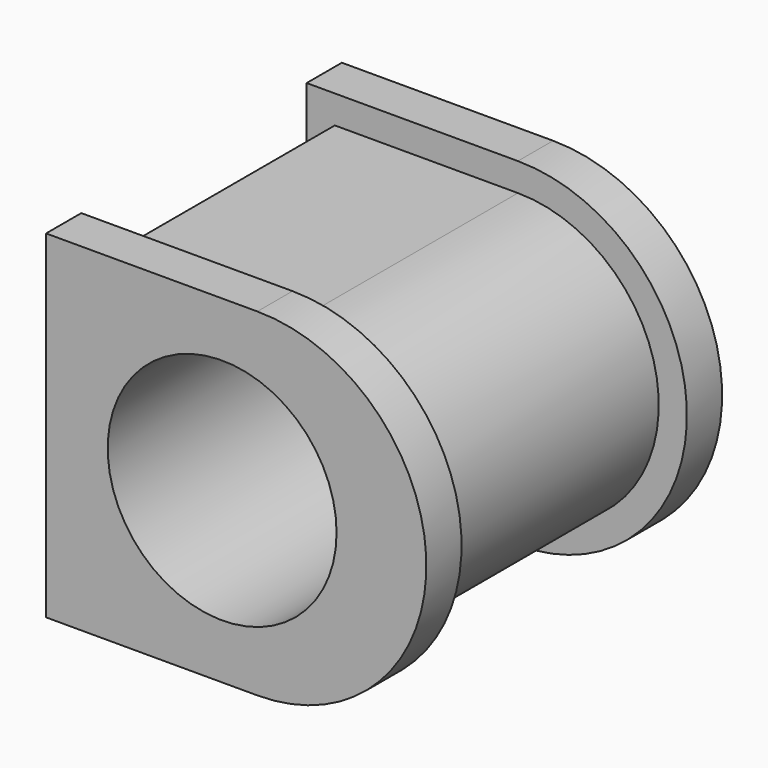
from build123d import *

# Parameters (mm, degrees)
PAD_DEPTH    = 80
PAD001_DEPTH = 12.5
PAD002_DEPTH = 12.5
SKETCH003_R  = 32.5
POCKET_DEPTH = 105.001


with BuildPart() as part:
    # Sketch → Pad (new body)
    with BuildSketch(Plane.XZ):
        with BuildLine():
            ThreePointArc((0, -40), (40, 3e-05), (-6.1e-05, 40))
            Line((-52, 40), (-6.1e-05, 40))
            Line((-52, -40), (-52, 40))
            Line((0, -40), (-52, -40))
        make_face()
    extrude(amount=PAD_DEPTH)

    # Sketch001 → Pad001 (new body)
    with BuildSketch(Plane.XZ.offset(80)):
        with BuildLine():
            Line((-60, 48), (-5.9e-05, 48))
            ThreePointArc((-5.9e-05, -48), (48, 0), (-5.9e-05, 48))
            Line((-5.9e-05, -48), (-60, -48))
            Line((-60, -48), (-60, 48))
        make_face()
    extrude(amount=PAD001_DEPTH)

    # Sketch002 → Pad002 (new body)
    with BuildSketch(Plane(origin=(0, 0, 0), x_dir=(1, 0, 0), z_dir=(0, 1, 0))):
        with BuildLine():
            Line((-60, 48), (-5.9e-05, 48))
            ThreePointArc((-5.9e-05, -48), (48, 0), (-5.9e-05, 48))
            Line((-5.9e-05, -48), (-60, -48))
            Line((-60, -48), (-60, 48))
        make_face()
    extrude(amount=PAD002_DEPTH)

    # Sketch003 → Pocket (cut, through all)
    with BuildSketch(Plane(origin=(0, 12.5, 0), x_dir=(1, 0, 0), z_dir=(0, 1, 0))):
        with Locations((-10, 0)):
            Circle(SKETCH003_R)
    extrude(amount=-POCKET_DEPTH, mode=Mode.SUBTRACT)


solid = part.part
